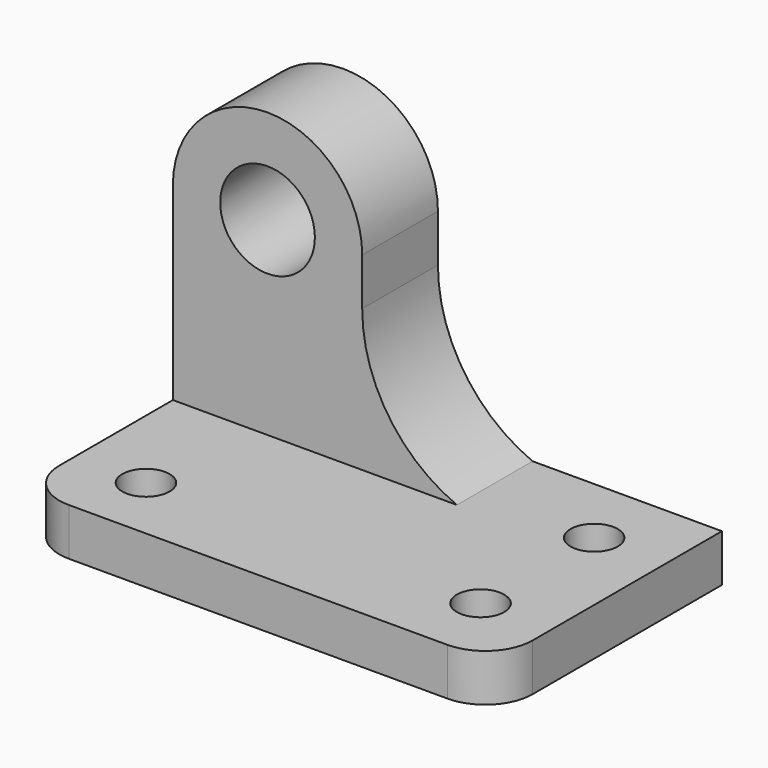
from build123d import *

# Parameters (mm, degrees)
F1_DEPTH  = 6.35
F2_W      = 25.4
F2_H      = 25.4
F3_DEPTH  = 12.7
F4_R      = 6.35
F5_DEPTH  = 25.4
F6_R      = 3.175
F7_DEPTH  = 25.4
F8_R      = 3.175
F9_DEPTH  = 25.4
F10_W     = 12.7
F10_H     = 19.05
F11_DEPTH = 12.7
F13_DEPTH = 25.4


with BuildPart() as f1:
    # F0 (on Top) → F1 (new body)
    with BuildSketch(Plane.XY):
        Polygon((0, 6.35), (0, 0), (50.8, 0), (50.8, 6.35), (57.15, 6.35), (57.15, 38.1), (-6.35, 38.1), (-6.35, 6.35), align=None)
        with BuildLine():
            Line((50.8, 6.35), (50.8, 0))
            ThreePointArc((50.8, 0), (55.290128, 1.859872), (57.15, 6.35))
            Line((57.15, 6.35), (50.8, 6.35))
        make_face()
        with BuildLine():
            ThreePointArc((-6.35, 6.35), (-4.490128, 1.859872), (0, 0))
            Line((0, 0), (0, 6.35))
            Line((0, 6.35), (-6.35, 6.35))
        make_face()
    extrude(amount=F1_DEPTH)

    # F2 (on face) → F3 (join)
    with BuildSketch(Plane(origin=(0, 38.1, 0), x_dir=(-1, 0, 0), z_dir=(0, 1, 0))):
        with Locations((-6.35, 19.05)):
            Rectangle(F2_W, F2_H)
        with BuildLine():
            Line((-19.05, 31.75), (6.35, 31.75))
            ThreePointArc((6.35, 31.75), (-6.35, 44.45), (-19.05, 31.75))
        make_face()
    extrude(amount=-F3_DEPTH)

    # F4 (on face) → F5 (cut)
    with BuildSketch(Plane.XZ.offset(-25.4)):
        with Locations((6.35, 31.75)):
            Circle(F4_R)
    extrude(amount=-F5_DEPTH, mode=Mode.SUBTRACT)

    # F6 (on face) → F7 (cut)
    with BuildSketch(Plane.XY.offset(6.35)):
        with Locations((3.175, 8.980256)):
            Circle(F6_R)
    extrude(amount=-F7_DEPTH, mode=Mode.SUBTRACT)

    # F8 (on face) → F9 (cut)
    with BuildSketch(Plane.XY.offset(6.35)):
        with Locations((47.625, 28.575)):
            Circle(F8_R)
        with Locations((47.625, 9.525)):
            Circle(F8_R)
    extrude(amount=-F9_DEPTH, mode=Mode.SUBTRACT)

    # F10 (on face) → F11 (join)
    with BuildSketch(Plane(origin=(0, 38.1, 0), x_dir=(-1, 0, 0), z_dir=(0, 1, 0))):
        with Locations((-25.4, 15.875)):
            Rectangle(F10_W, F10_H)
    extrude(amount=-F11_DEPTH)

    # F12 (on face) → F13 (cut)
    with BuildSketch(Plane(origin=(0, 38.1, 0), x_dir=(-1, 0, 0), z_dir=(0, 1, 0))):
        with BuildLine():
            Line((-31.75, 25.4), (-31.75, 6.35))
            ThreePointArc((-31.75, 6.35), (-22.516062, 13.952375), (-19.05, 25.4))
            Line((-19.05, 25.4), (-31.75, 25.4))
        make_face()
    extrude(amount=-F13_DEPTH, mode=Mode.SUBTRACT)


solid = f1.part
